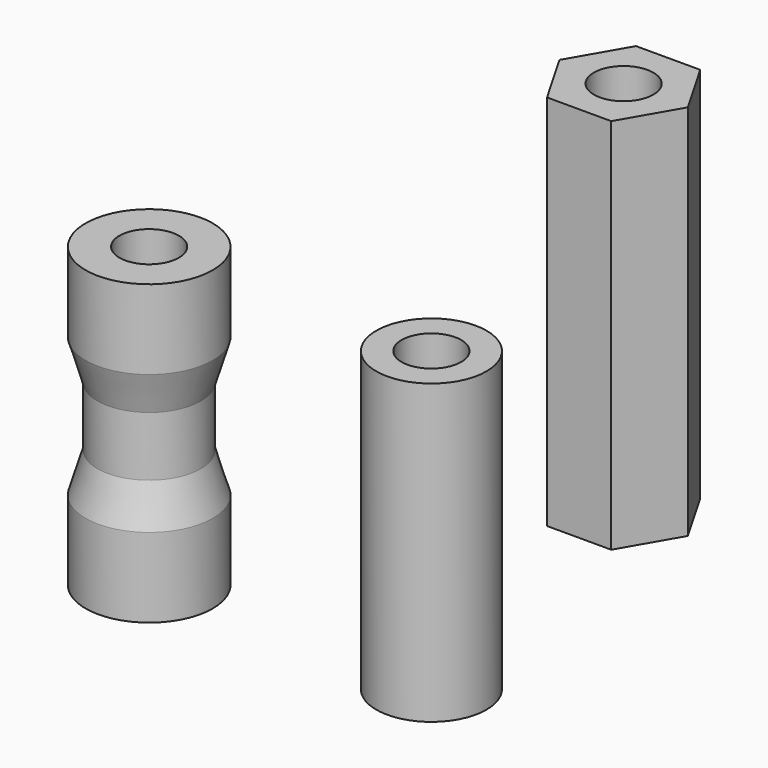
from build123d import *

# Parameters (mm, degrees)
F0_R      = 3.2
F1_DEPTH  = 4
F1_FACE_R = 3.2
F3_R      = 2.6
F9_DEPTH  = 9
F6_R      = 2.6
F8_R      = 3.2
F11_DEPTH = 4
F12_R     = 1.5
F13_DEPTH = 25
F14_R     = 2.775
F14_R_2   = 1.5
F15_DEPTH = 15
F16_R     = 1.5
F17_DEPTH = 19


with BuildPart() as f1:
    # F0 (on Top) → F1 (new body)
    with BuildSketch(Plane.XY):
        Circle(F0_R)
    extrude(amount=F1_DEPTH)

    # F1_face (on face) → F4 section 0
    with BuildSketch(Plane.XY.offset(4)):
        Circle(F1_FACE_R)
    # F3 (on offset) → F4 section 1
    with BuildSketch(Plane.XY.offset(6)):
        Circle(F3_R)
    loft()

    # F3 (on offset) → F9 (join)
    with BuildSketch(Plane.XY.offset(6)):
        Circle(F3_R)
    extrude(amount=F9_DEPTH)

    # F6 (on offset) → F10 section 0
    with BuildSketch(Plane.XY.offset(9)):
        Circle(F6_R)
    # F8 (on offset) → F10 section 1
    with BuildSketch(Plane.XY.offset(11)):
        Circle(F8_R)
    loft()

    # F8 (on offset) → F11 (join)
    with BuildSketch(Plane.XY.offset(11)):
        Circle(F8_R)
    extrude(amount=F11_DEPTH)

    # F12 (on Top) → F13 (cut)
    with BuildSketch(Plane.XY):
        Circle(F12_R)
    extrude(amount=F13_DEPTH, mode=Mode.SUBTRACT)


with BuildPart() as f15:
    # F14 (on Top) → F15 (new body)
    with BuildSketch(Plane.XY):
        with Locations((14.212486, 0)):
            Circle(F14_R)
        with Locations((14.212486, 0)):
            Circle(F14_R_2, mode=Mode.SUBTRACT)
    extrude(amount=F15_DEPTH)


with BuildPart() as f17:
    # F16 (on offset) → F17 (new body)
    with BuildSketch(Plane.XY.offset(11)):
        Polygon((25.50818, 2.8), (22.275018, 2.8), (20.658438, 0), (22.275018, -2.8), (25.50818, -2.8), (27.124761, 0), align=None)
        with Locations((23.891599, 0)):
            Circle(F16_R, mode=Mode.SUBTRACT)
    extrude(amount=F17_DEPTH)


solid = Compound([f1.part, f15.part, f17.part])
